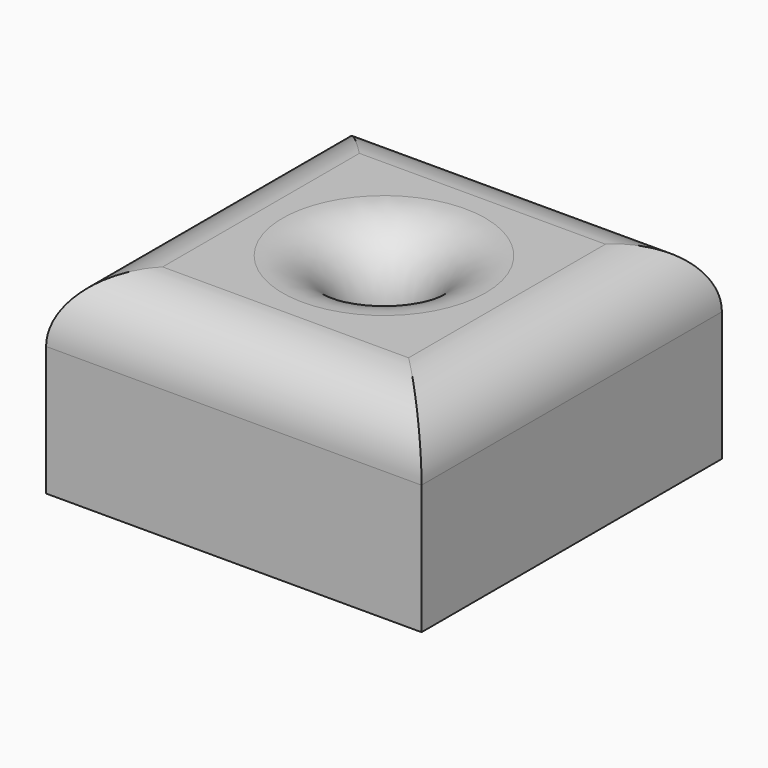
from build123d import *

# Parameters (mm, degrees)
F0_W     = 87
F0_H     = 87
F0_R     = 8.5
F1_DEPTH = 45
F2_R     = 15


with BuildPart() as f1:
    # F0 (on Top) → F1 (new body)
    with BuildSketch(Plane.XY):
        Rectangle(F0_W, F0_H)
        Circle(F0_R, mode=Mode.SUBTRACT)
    extrude(amount=F1_DEPTH)

    # F2
    f2_edges = [f1.edges().sort_by_distance(p)[0] for p in [
        (0, -43.5, 45),
        (43.5, 0, 45),
        (0, 43.5, 45),
        (-43.5, 0, 45),
        (-8.5, 0, 45),
    ]]
    fillet(f2_edges, radius=F2_R)


solid = f1.part
